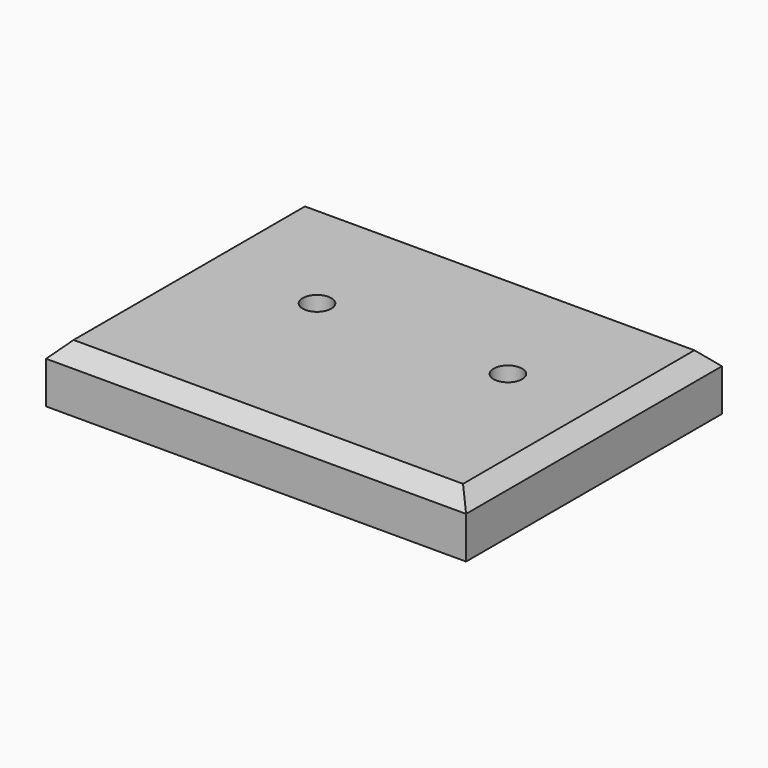
from build123d import *

# Parameters (mm, degrees)
F0_W     = 139.7
F0_H     = 106.3625
F1_DEPTH = 19.05
F2_SIZE  = 5.08
F3_R     = 4.7625
F4_DEPTH = 10.16


with BuildPart() as f1:
    # F0 (on Top) → F1 (new body)
    with BuildSketch(Plane.XY):
        with Locations((69.85, -53.18125)):
            Rectangle(F0_W, F0_H)
    extrude(amount=F1_DEPTH)

    # F2
    f2_edges = [f1.edges().sort_by_distance(p)[0] for p in [
        (69.85, 0, 19.05),
        (0, -53.18125, 19.05),
        (69.85, -106.3625, 19.05),
        (139.7, -53.18125, 19.05),
    ]]
    chamfer(f2_edges, length=F2_SIZE)

    # F3 (on face) → F4 (cut)
    with BuildSketch(Plane.XY.offset(19.05)):
        with Locations((41.5925, -45.72)):
            Circle(F3_R)
        with Locations((105.0925, -45.72)):
            Circle(F3_R)
    extrude(amount=-F4_DEPTH, mode=Mode.SUBTRACT)


solid = f1.part
